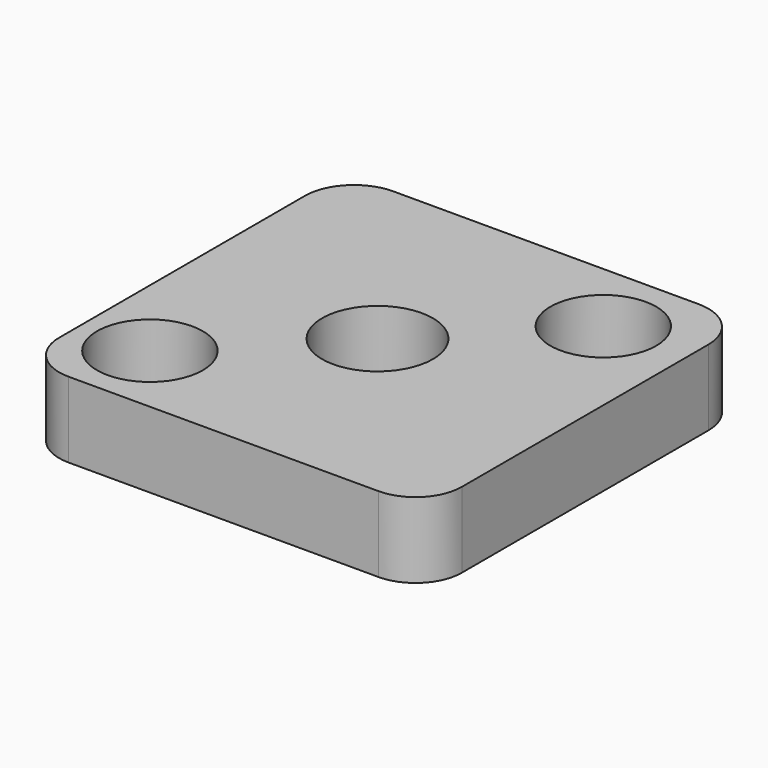
from build123d import *

# Parameters (mm, degrees)
SKETCH_R   = 21
SKETCH_R_2 = 22
PAD_DEPTH  = 30


with BuildPart() as part:
    # Sketch → Pad (new body)
    with BuildSketch(Plane.XY):
        with BuildLine():
            Line((-58.357879, -60.063078), (64.645731, -60.063078))
            ThreePointArc((64.645731, -60.063078), (77.632902, -54.683615), (83.012364, -41.696445))
            Line((83.012364, -41.696445), (83.012364, 80.611165))
            ThreePointArc((83.012364, 80.611165), (77.351981, 94.276539), (63.686607, 99.936922))
            Line((63.686607, 99.936922), (-57.470352, 99.936922))
            ThreePointArc((-57.470352, 99.936922), (-71.271156, 94.220442), (-76.987636, 80.419638))
            Line((-76.987636, 80.419638), (-76.987636, -41.433321))
            ThreePointArc((-76.987636, -41.433321), (-71.531106, -54.606548), (-58.357879, -60.063078))
        make_face()
        with Locations((-49.557964, -30.704547)):
            Circle(SKETCH_R, mode=Mode.SUBTRACT)
        with Locations((49.891115, 69.894362)):
            Circle(SKETCH_R, mode=Mode.SUBTRACT)
        with Locations((0.465053, 19.662022)):
            Circle(SKETCH_R_2, mode=Mode.SUBTRACT)
    extrude(amount=PAD_DEPTH)


solid = part.part
